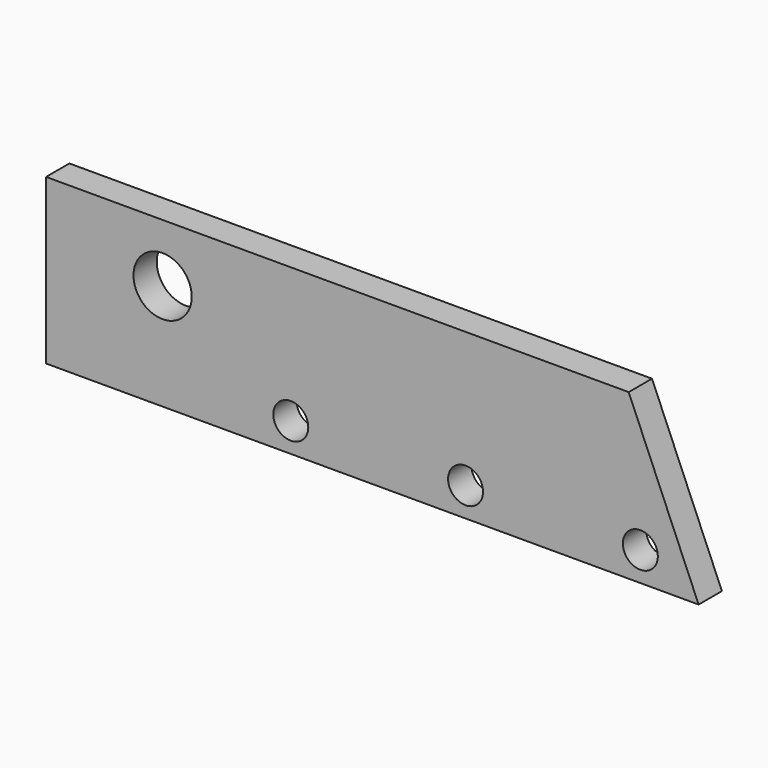
from build123d import *

# Parameters (mm, degrees)
F0_R      = 3
F0_R_2    = 5
F1_DEPTH  = 5
F1_FACE_W = 100
F1_FACE_H = 5
F2_DEPTH  = 2
F3_DEPTH  = 5


with BuildPart() as f1:
    # F0 (on Front) → F1 (new body)
    with BuildSketch(Plane.XZ):
        Polygon((-80.611844, -2.364473), (31.388156, -2.364473), (19.388156, 25.835527), (-80.611844, 25.835527), align=None)
        with Locations((-38.611844, 2.635527)):
            Circle(F0_R, mode=Mode.SUBTRACT)
        with Locations((-8.611844, 2.635527)):
            Circle(F0_R, mode=Mode.SUBTRACT)
        with Locations((21.388156, 2.635527)):
            Circle(F0_R, mode=Mode.SUBTRACT)
        with Locations((-60.611844, 15.835527)):
            Circle(F0_R_2, mode=Mode.SUBTRACT)
    extrude(amount=F1_DEPTH)

    # F1_face (on face) → F2 (cut)
    with BuildSketch(Plane(origin=(-30.611844, -2.5, 25.835527), x_dir=(1, 0, 0), z_dir=(0, 0, 1))):
        Rectangle(F1_FACE_W, F1_FACE_H)
    extrude(amount=-F2_DEPTH, mode=Mode.SUBTRACT)

    # F0 (on Front) → F3 (join)
    with BuildSketch(Plane.XZ):
        Polygon((-80.611844, -2.364473), (31.388156, -2.364473), (19.388156, 25.835527), (-80.611844, 25.835527), align=None)
        with Locations((-38.611844, 2.635527)):
            Circle(F0_R, mode=Mode.SUBTRACT)
        with Locations((-8.611844, 2.635527)):
            Circle(F0_R, mode=Mode.SUBTRACT)
        with Locations((21.388156, 2.635527)):
            Circle(F0_R, mode=Mode.SUBTRACT)
        with Locations((-60.611844, 15.835527)):
            Circle(F0_R_2, mode=Mode.SUBTRACT)
    extrude(amount=F3_DEPTH)


solid = f1.part
